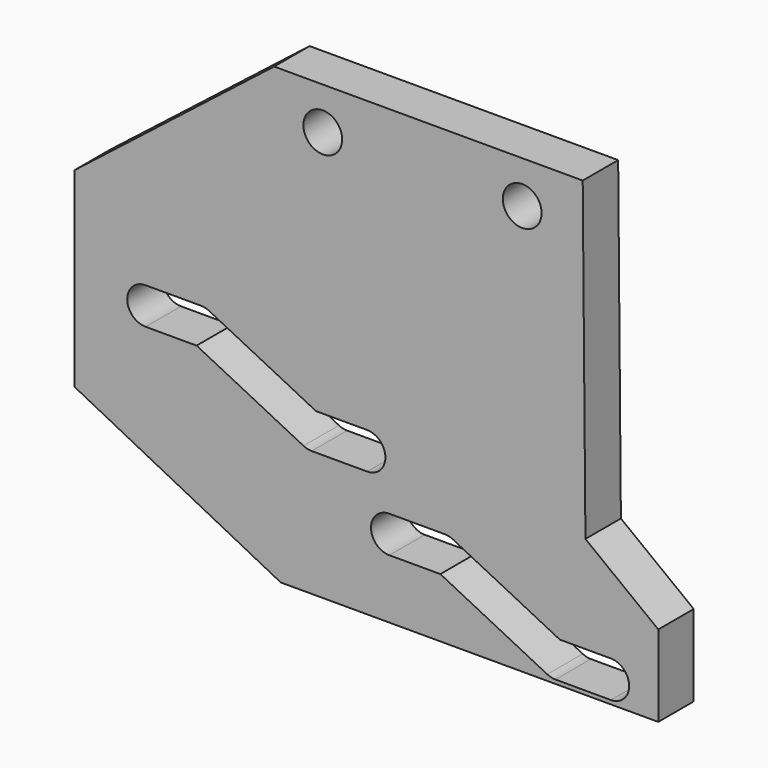
from build123d import *

# Parameters (mm, degrees)
F4_DEPTH = 4
F0_R     = 1.75
F5_DEPTH = 25
F7_DEPTH = 2


with BuildPart() as f4:
    # F3 (on Front) → F4 (new body)
    with BuildSketch(Plane.XZ):
        Polygon((14.7063490003, 20.4016491771), (14.4608622171, 48.8), (-13.3913809769, 48.8), (-31.4313102054, 34.6867430935), (-31.4313102054, 17.5032976646), (-12.7962362449, 8), (21.2817378342, 8), (21.2817378342, 15.3483422473), align=None)
    extrude(amount=F4_DEPTH)

    # F0 (on Front) + F1 (on Front) + F2 (on Front) → F5 (cut)
    with BuildSketch(Plane.XZ):
        with Locations((-9, 45)):
            Circle(F0_R)
        with Locations((9, 45)):
            Circle(F0_R)
    with BuildSketch(Plane.XZ):
        with BuildLine():
            Line((10.5241951349, 10.7379024326), (12, 10))
            Line((12, 10), (13.65, 10))
            ThreePointArc((13.65, 10), (13.4035738338, 10.867456335), (12.7379024326, 11.4758048651))
            Line((12.7379024326, 11.4758048651), (12.3895121629, 11.65))
            Line((12.3895121629, 11.65), (12, 11.65))
            ThreePointArc((12, 11.65), (11.132543665, 11.4035738338), (10.5241951349, 10.7379024326))
        make_face()
        with BuildLine():
            Line((13.65, 10), (12, 10))
            Line((12, 10), (10.5241951349, 10.7379024326))
            ThreePointArc((10.5241951349, 10.7379024326), (10.4346725582, 9.4782241861), (11.2620975674, 8.5241951349))
            ThreePointArc((11.2620975674, 8.5241951349), (11.6209076811, 8.3941391674), (12, 8.35))
            ThreePointArc((12, 8.35), (13.166726189, 8.833273811), (13.65, 10))
        make_face()
        with BuildLine():
            ThreePointArc((12.7379024326, 11.4758048651), (13.4035738338, 10.867456335), (13.65, 10))
            ThreePointArc((13.65, 10), (13.166726189, 8.833273811), (12, 8.35))
            Line((12, 8.35), (17, 8.35))
            ThreePointArc((17, 8.35), (18.65, 10), (17, 11.65))
            Line((17, 11.65), (12.3895121629, 11.65))
            Line((12.3895121629, 11.65), (12.7379024326, 11.4758048651))
        make_face()
        with BuildLine():
            ThreePointArc((11.2620975674, 8.5241951349), (10.4346725582, 9.4782241861), (10.5241951349, 10.7379024326))
            Line((10.5241951349, 10.7379024326), (3.4758048651, 14.2620975674))
            ThreePointArc((3.4758048651, 14.2620975674), (2.867456335, 13.5964261662), (2, 13.35))
            Line((2, 13.35), (1.6104878371, 13.35))
            Line((1.6104878371, 13.35), (11.2620975674, 8.5241951349))
        make_face()
        with BuildLine():
            Line((3.4758048651, 14.2620975674), (10.5241951349, 10.7379024326))
            ThreePointArc((10.5241951349, 10.7379024326), (11.132543665, 11.4035738338), (12, 11.65))
            Line((12, 11.65), (12.3895121629, 11.65))
            Line((12.3895121629, 11.65), (2.7379024326, 16.4758048651))
            ThreePointArc((2.7379024326, 16.4758048651), (3.5653274418, 15.5217758139), (3.4758048651, 14.2620975674))
        make_face()
        with BuildLine():
            ThreePointArc((2, 13.35), (2.867456335, 13.5964261662), (3.4758048651, 14.2620975674))
            Line((3.4758048651, 14.2620975674), (2, 15))
            Line((2, 15), (0.35, 15))
            ThreePointArc((0.35, 15), (0.5964261662, 14.132543665), (1.2620975674, 13.5241951349))
            Line((1.2620975674, 13.5241951349), (1.6104878371, 13.35))
            Line((1.6104878371, 13.35), (2, 13.35))
        make_face()
        with BuildLine():
            Line((2, 15), (3.4758048651, 14.2620975674))
            ThreePointArc((3.4758048651, 14.2620975674), (3.5653274418, 15.5217758139), (2.7379024326, 16.4758048651))
            ThreePointArc((2.7379024326, 16.4758048651), (2.3790923189, 16.6058608326), (2, 16.65))
            ThreePointArc((2, 16.65), (0.833273811, 16.166726189), (0.35, 15))
            Line((0.35, 15), (2, 15))
        make_face()
        with BuildLine():
            Line((-3, 13.35), (1.6104878371, 13.35))
            Line((1.6104878371, 13.35), (1.2620975674, 13.5241951349))
            ThreePointArc((1.2620975674, 13.5241951349), (0.5964261662, 14.132543665), (0.35, 15))
            ThreePointArc((0.35, 15), (0.833273811, 16.166726189), (2, 16.65))
            Line((2, 16.65), (-3, 16.65))
            ThreePointArc((-3, 16.65), (-4.65, 15), (-3, 13.35))
        make_face()
    with BuildSketch(Plane.XZ):
        with BuildLine():
            Line((-11.4758048651, 21.7379024326), (-10, 21))
            Line((-10, 21), (-8.35, 21))
            ThreePointArc((-8.35, 21), (-8.5964261662, 21.867456335), (-9.2620975674, 22.4758048651))
            Line((-9.2620975674, 22.4758048651), (-9.6104878371, 22.65))
            Line((-9.6104878371, 22.65), (-10, 22.65))
            ThreePointArc((-10, 22.65), (-10.867456335, 22.4035738338), (-11.4758048651, 21.7379024326))
        make_face()
        with BuildLine():
            Line((-8.35, 21), (-10, 21))
            Line((-10, 21), (-11.4758048651, 21.7379024326))
            ThreePointArc((-11.4758048651, 21.7379024326), (-11.5653274418, 20.4782241861), (-10.7379024326, 19.5241951349))
            ThreePointArc((-10.7379024326, 19.5241951349), (-10.3790923189, 19.3941391674), (-10, 19.35))
            ThreePointArc((-10, 19.35), (-8.833273811, 19.833273811), (-8.35, 21))
        make_face()
        with BuildLine():
            ThreePointArc((-9.2620975674, 22.4758048651), (-8.5964261662, 21.867456335), (-8.35, 21))
            ThreePointArc((-8.35, 21), (-8.833273811, 19.833273811), (-10, 19.35))
            Line((-10, 19.35), (-5, 19.35))
            ThreePointArc((-5, 19.35), (-3.35, 21), (-5, 22.65))
            Line((-5, 22.65), (-9.6104878371, 22.65))
            Line((-9.6104878371, 22.65), (-9.2620975674, 22.4758048651))
        make_face()
        with BuildLine():
            ThreePointArc((-10.7379024326, 19.5241951349), (-11.5653274418, 20.4782241861), (-11.4758048651, 21.7379024326))
            Line((-11.4758048651, 21.7379024326), (-18.5241951349, 25.2620975674))
            ThreePointArc((-18.5241951349, 25.2620975674), (-19.132543665, 24.5964261662), (-20, 24.35))
            Line((-20, 24.35), (-20.3895121629, 24.35))
            Line((-20.3895121629, 24.35), (-10.7379024326, 19.5241951349))
        make_face()
        with BuildLine():
            Line((-18.5241951349, 25.2620975674), (-11.4758048651, 21.7379024326))
            ThreePointArc((-11.4758048651, 21.7379024326), (-10.867456335, 22.4035738338), (-10, 22.65))
            Line((-10, 22.65), (-9.6104878371, 22.65))
            Line((-9.6104878371, 22.65), (-19.2620975674, 27.4758048651))
            ThreePointArc((-19.2620975674, 27.4758048651), (-18.4346725582, 26.5217758139), (-18.5241951349, 25.2620975674))
        make_face()
        with BuildLine():
            ThreePointArc((-20, 24.35), (-19.132543665, 24.5964261662), (-18.5241951349, 25.2620975674))
            Line((-18.5241951349, 25.2620975674), (-20, 26))
            Line((-20, 26), (-21.65, 26))
            ThreePointArc((-21.65, 26), (-21.4035738338, 25.132543665), (-20.7379024326, 24.5241951349))
            Line((-20.7379024326, 24.5241951349), (-20.3895121629, 24.35))
            Line((-20.3895121629, 24.35), (-20, 24.35))
        make_face()
        with BuildLine():
            Line((-20, 26), (-18.5241951349, 25.2620975674))
            ThreePointArc((-18.5241951349, 25.2620975674), (-18.4346725582, 26.5217758139), (-19.2620975674, 27.4758048651))
            ThreePointArc((-19.2620975674, 27.4758048651), (-19.6209076811, 27.6058608326), (-20, 27.65))
            ThreePointArc((-20, 27.65), (-21.166726189, 27.166726189), (-21.65, 26))
            Line((-21.65, 26), (-20, 26))
        make_face()
        with BuildLine():
            Line((-25, 24.35), (-20.3895121629, 24.35))
            Line((-20.3895121629, 24.35), (-20.7379024326, 24.5241951349))
            ThreePointArc((-20.7379024326, 24.5241951349), (-21.4035738338, 25.132543665), (-21.65, 26))
            ThreePointArc((-21.65, 26), (-21.166726189, 27.166726189), (-20, 27.65))
            Line((-20, 27.65), (-25, 27.65))
            ThreePointArc((-25, 27.65), (-26.65, 26), (-25, 24.35))
        make_face()
    extrude(amount=F5_DEPTH, mode=Mode.SUBTRACT)

    # F6 (on face) → F7 (join)
    with BuildSketch(Plane(origin=(0, 0, 0), x_dir=(-1, 0, 0), z_dir=(0, 1, 0))):
        with BuildLine():
            Line((0.9742605893, 39.5259801518), (0.4651322738, 38.6772193015))
            Line((0.4651322738, 38.6772193015), (2.3892181925, 38.6772193015))
            Line((2.3892181925, 38.6772193015), (4.0392181925, 38.6772193015))
            ThreePointArc((4.0392181925, 38.6772193015), (3.5559443815, 39.8439454904), (2.3892181925, 40.3272193015))
            ThreePointArc((2.3892181925, 40.3272193015), (1.5761854143, 40.1130040003), (0.9742605893, 39.5259801518))
        make_face()
        with BuildLine():
            Line((-0.5246185145, 37.0272193015), (0.4651322738, 38.6772193015))
            Line((0.4651322738, 38.6772193015), (0.9742605893, 39.5259801518))
            ThreePointArc((0.9742605893, 39.5259801518), (1.5761854143, 40.1130040003), (2.3892181925, 40.3272193015))
            Line((2.3892181925, 40.3272193015), (-11.0781090334, 40.3272193015))
            ThreePointArc((-11.0781090334, 40.3272193015), (-12.7281090334, 38.6772193015), (-11.0781090334, 37.0272193015))
            Line((-11.0781090334, 37.0272193015), (-0.5246185145, 37.0272193015))
        make_face()
        Polygon((2.3892181925, 38.6772193015), (0.4651322738, 38.6772193015), (-0.5246185145, 37.0272193015), (1.3994674043, 37.0272193015), align=None)
        with BuildLine():
            Line((4.0392181925, 38.6772193015), (2.3892181925, 38.6772193015))
            Line((2.3892181925, 38.6772193015), (1.3994674043, 37.0272193015))
            Line((1.3994674043, 37.0272193015), (3.3235533231, 37.0272193015))
            Line((3.3235533231, 37.0272193015), (3.8041757958, 37.8284584511))
            ThreePointArc((3.8041757958, 37.8284584511), (3.9793722803, 38.2368671954), (4.0392181925, 38.6772193015))
        make_face()
        with BuildLine():
            Line((1.3994674043, 37.0272193015), (-0.5246185145, 37.0272193015))
            Line((-0.5246185145, 37.0272193015), (-6.3666907677, 27.2879805636))
            ThreePointArc((-6.3666907677, 27.2879805636), (-5.8004940149, 25.02426211), (-3.5367755613, 25.5904588628))
            Line((-3.5367755613, 25.5904588628), (3.3235533231, 37.0272193015))
            Line((3.3235533231, 37.0272193015), (1.3994674043, 37.0272193015))
        make_face()
        with BuildLine():
            ThreePointArc((2.3892181925, 40.3272193015), (3.5559443815, 39.8439454904), (4.0392181925, 38.6772193015))
            ThreePointArc((4.0392181925, 38.6772193015), (3.9793722803, 38.2368671954), (3.8041757958, 37.8284584511))
            Line((3.8041757958, 37.8284584511), (3.3235533231, 37.0272193015))
            Line((3.3235533231, 37.0272193015), (17.1748909666, 37.0272193015))
            ThreePointArc((17.1748909666, 37.0272193015), (18.8248909666, 38.6772193015), (17.1748909666, 40.3272193015))
            Line((17.1748909666, 40.3272193015), (2.3892181925, 40.3272193015))
        make_face()
    extrude(amount=F7_DEPTH)


solid = f4.part
